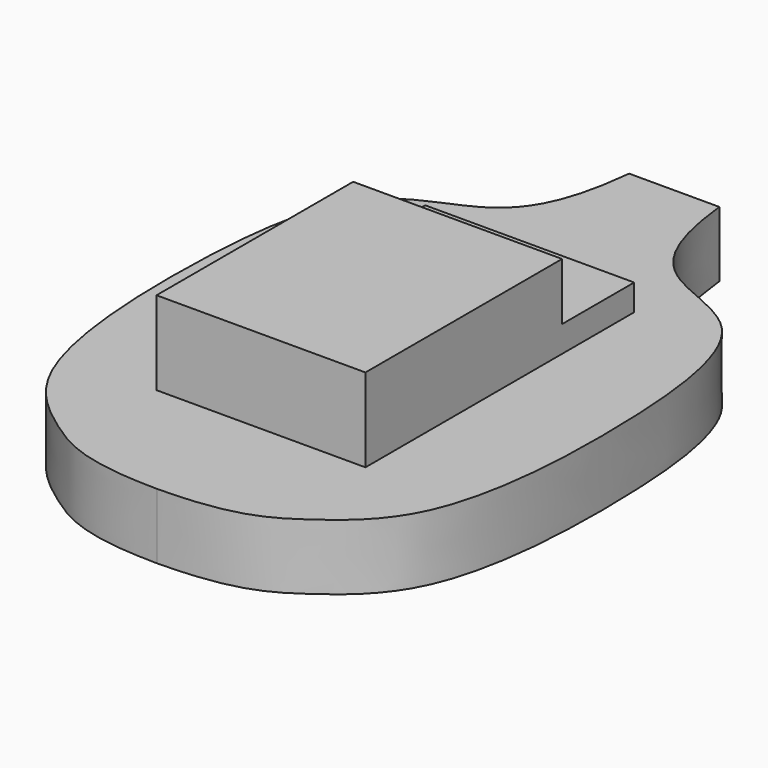
from build123d import *

# Parameters (mm, degrees)
F0_W     = 12.75
F0_H     = 20.5
F0_R     = 1.75
F1_DEPTH = 1.6
F2_R     = 1.4
F3_DEPTH = 4
F5_DEPTH = 2.5
F6_W     = 12.75
F6_H     = 15
F7_DEPTH = 3.5


with BuildPart() as f1:
    # F0 (on Top) → F1 (new body)
    with BuildSketch(Plane.XY):
        Rectangle(F0_W, F0_H)
        with Locations((0, 7.6)):
            Circle(F0_R, mode=Mode.SUBTRACT)
    extrude(amount=F1_DEPTH)

    # F6 (on face) → F7 (join)
    with BuildSketch(Plane.XY.offset(1.6)):
        with Locations((0, -2.75)):
            Rectangle(F6_W, F6_H)
    extrude(amount=F7_DEPTH)


with BuildPart() as f3:
    # F2 (on face) → F3 (new body)
    with BuildSketch(Plane(origin=(0, 0, 0), x_dir=(1, 0, 0), z_dir=(0, 0, -1))):
        with BuildLine():
            add(Edge.make_bspline(
                [(-2.75, -21.274395287), (-3.1538479416, -17.5647359662), (-4.7954433454, -13.8168100471), (-12.1081629081, -12.5765102153), (-13.5397026844, -1.1694834905), (-12.7708206971, 12.159775653), (-7.2886974081, 16.5538616792), (-4.4771958107, 18.1403989938), (0, 18.1906595826)],
                knots=[0, 0, 0, 0, 0.1588602561, 0.296699506, 0.4855380164, 0.6977378064, 0.8366915404, 1, 1, 1, 1], degree=3))
            Line((-2.75, -21.274395287), (2.75, -21.274395287))
            add(Edge.make_bspline(
                [(2.75, -21.274395287), (3.1538479416, -17.5647359662), (4.7954433454, -13.8168100471), (12.1081629081, -12.5765102153), (13.5397026844, -1.1694834905), (12.7708206971, 12.159775653), (7.2886974081, 16.5538616792), (4.4771958107, 18.1403989938), (0, 18.1906595826)],
                knots=[0, 0, 0, 0, 0.1588602561, 0.296699506, 0.4855380164, 0.6977378064, 0.8366915404, 1, 1, 1, 1], degree=3))
        make_face()
        with Locations((0, -7.6)):
            Circle(F2_R, mode=Mode.SUBTRACT)
    extrude(amount=F3_DEPTH)

    # F4 (on face) → F5 (cut)
    with BuildSketch(Plane(origin=(0, 0, -4), x_dir=(1, 0, 0), z_dir=(0, 0, -1))):
        Polygon((2.75, -9.1877132403), (2.75, -6.0122867597), (0, -4.4245735195), (-2.75, -6.0122867597), (-2.75, -9.1877132403), (0, -10.7754264805), align=None)
    extrude(amount=-F5_DEPTH, mode=Mode.SUBTRACT)


solid = Compound([f1.part, f3.part])
